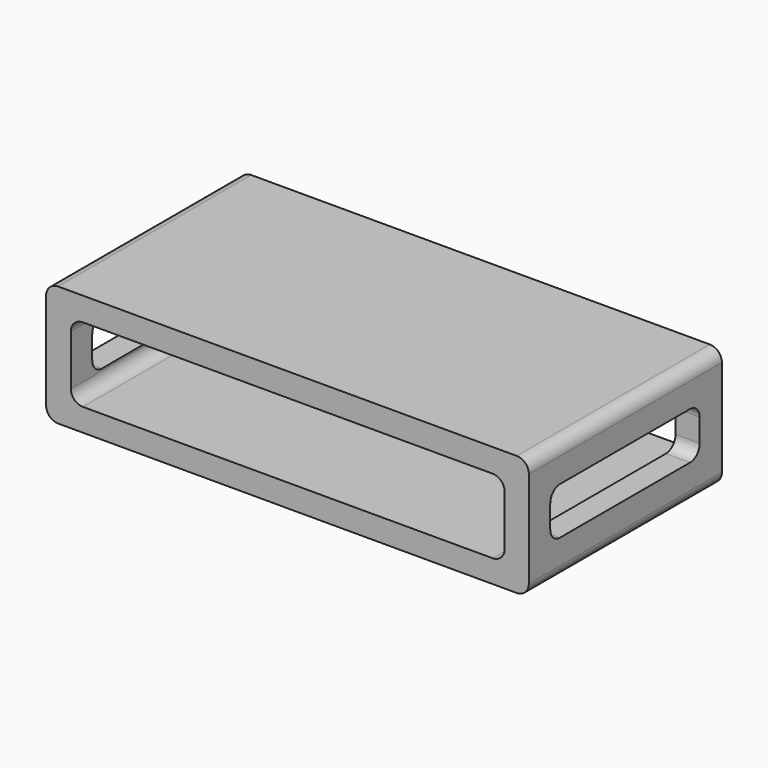
from build123d import *

# Parameters (mm, degrees)
F0_W     = 2000
F0_H     = 500
F1_DEPTH = 1000
F2_W     = 1797.439754
F2_H     = 308.463849
F3_DEPTH = 1000.001
F4_R     = 50
F5_W     = 773.947201
F5_H     = 195.373047
F6_DEPTH = 2000.001
F7_R     = 50


with BuildPart() as f1:
    # F0 (on Front) → F1 (new body)
    with BuildSketch(Plane.XZ):
        with Locations((0, -36.538462)):
            Rectangle(F0_W, F0_H)
    extrude(amount=F1_DEPTH)

    # F2 (on face) → F3 (cut, through all)
    with BuildSketch(Plane.XZ.offset(1000)):
        with Locations((1.209587, -38.093578)):
            Rectangle(F2_W, F2_H)
    extrude(amount=-F3_DEPTH, mode=Mode.SUBTRACT)

    # F4
    f4_edges = [f1.edges().sort_by_distance(p)[0] for p in [
        (1000, -500, 213.461538),
        (1000, -500, -286.538462),
        (-1000, -500, 213.461538),
        (-1000, -500, -286.538462),
        (-897.51029, -500, 116.138346),
        (-897.51029, -500, -192.325503),
        (899.929464, -500, 116.138346),
        (899.929464, -500, -192.325503),
    ]]
    fillet(f4_edges, radius=F4_R)

    # F5 (on face) → F6 (cut, through all)
    with BuildSketch(Plane(origin=(-1000, 0, 0), x_dir=(0, -1, 0), z_dir=(-1, 0, 0))):
        with Locations((502.068478, -36.354279)):
            Rectangle(F5_W, F5_H)
    extrude(amount=-F6_DEPTH, mode=Mode.SUBTRACT)

    # F7
    f7_edges = [f1.edges().sort_by_distance(p)[0] for p in [
        (949.964732, -115.094878, 61.332244),
        (-948.755145, -115.094878, 61.332244),
        (949.964732, -889.042079, 61.332244),
        (-948.755145, -889.042079, 61.332244),
        (949.964732, -115.094878, -134.040803),
        (-948.755145, -115.094878, -134.040803),
        (949.964732, -889.042079, -134.040803),
        (-948.755145, -889.042079, -134.040803),
    ]]
    fillet(f7_edges, radius=F7_R)


solid = f1.part
